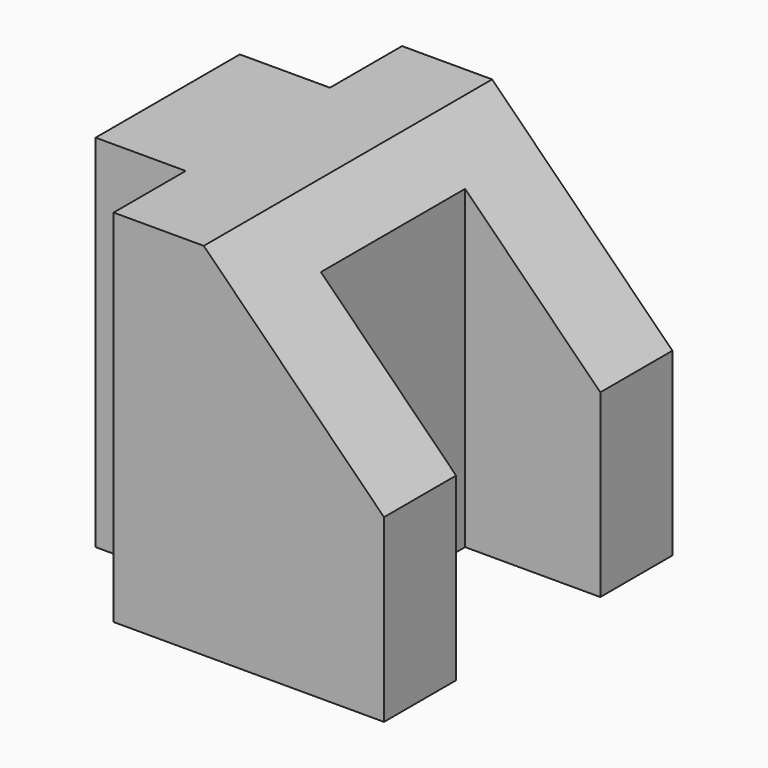
from build123d import *

# Parameters (mm, degrees)
F1_DEPTH = 25.4
F2_W     = 6.35
F2_H     = 6.35
F3_DEPTH = 25.401
F4_W     = 9.525
F4_H     = 12.7
F5_DEPTH = 25.401


with BuildPart() as f1:
    # F0 (on Front) → F1 (new body)
    with BuildSketch(Plane.XZ):
        Polygon((12.7, 0), (0, 0), (0, -25.4), (25.4, -25.4), (25.4, -12.7), align=None)
    extrude(amount=-F1_DEPTH)

    # F2 (on face) → F3 (cut, through all)
    with BuildSketch(Plane.XY):
        with Locations((3.175, 22.225)):
            Rectangle(F2_W, F2_H)
        with Locations((3.175, 3.175)):
            Rectangle(F2_W, F2_H)
    extrude(amount=-F3_DEPTH, mode=Mode.SUBTRACT)

    # F4 (on face) → F5 (cut, through all)
    with BuildSketch(Plane(origin=(0, 0, -25.4), x_dir=(1, 0, 0), z_dir=(0, 0, -1))):
        with Locations((20.6375, -12.7)):
            Rectangle(F4_W, F4_H)
    extrude(amount=-F5_DEPTH, mode=Mode.SUBTRACT)


solid = f1.part
